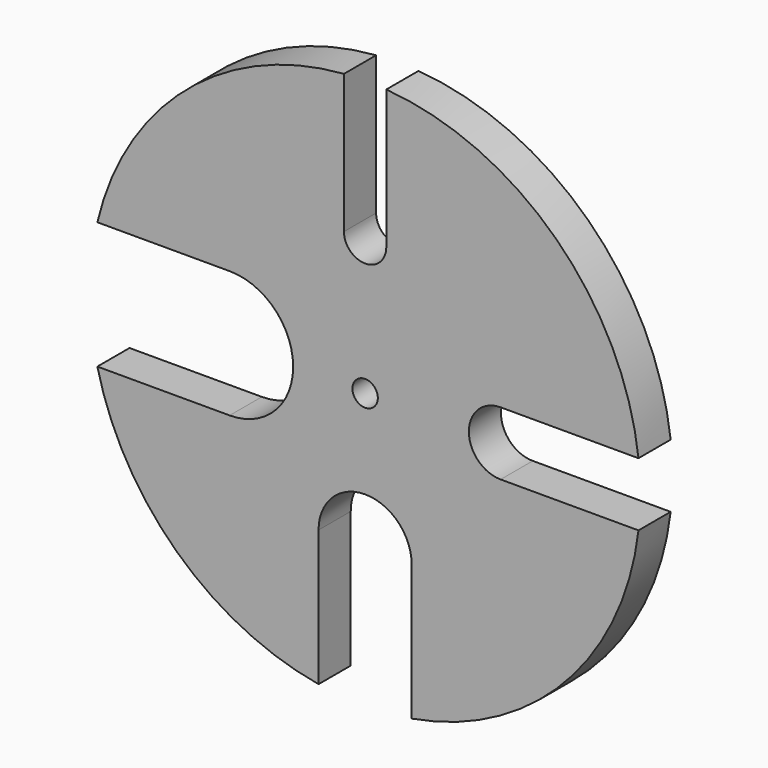
from build123d import *

# Parameters (mm, degrees)
F1_DEPTH = 9.5
F3_D     = 6


with BuildPart() as f1:
    # F0 (on Front) → F1 (new body)
    with BuildSketch(Plane.XZ):
        with BuildLine():
            Line((11, -32), (11, -64.0624695122))
            ThreePointArc((11, -64.0624695122), (47.1951052283, -44.6947652695), (64.5658578507, -7.5))
            Line((64.5658578507, -7.5), (32, -7.5))
            ThreePointArc((32, -7.5), (24.5, 0), (32, 7.5))
            Line((32, 7.5), (64.5658578507, 7.5))
            ThreePointArc((64.5658578507, 7.5), (45.0653621802, 46.8413613334), (5, 64.8074069841))
            Line((5, 64.8074069841), (5, 32))
            ThreePointArc((5, 32), (0, 27), (-5, 32))
            Line((-5, 32), (-5, 64.8074069841))
            ThreePointArc((-5, 64.8074069841), (-42.2440330772, 49.4008266062), (-63.2455532034, 15))
            Line((-63.2455532034, 15), (-32, 15))
            ThreePointArc((-32, 15), (-17, 0), (-32, -15))
            Line((-32, -15), (-63.2455532034, -15))
            ThreePointArc((-63.2455532034, -15), (-44.4958652155, -47.3826759346), (-11, -64.0624695122))
            Line((-11, -64.0624695122), (-11, -32))
            ThreePointArc((-11, -32), (0, -21), (11, -32))
        make_face()
    extrude(amount=F1_DEPTH)

    # F3 (through all)
    with Locations(Plane.XZ.offset(9.5)):
        with Locations((0, 0)):
            Hole(F3_D / 2)


solid = f1.part
